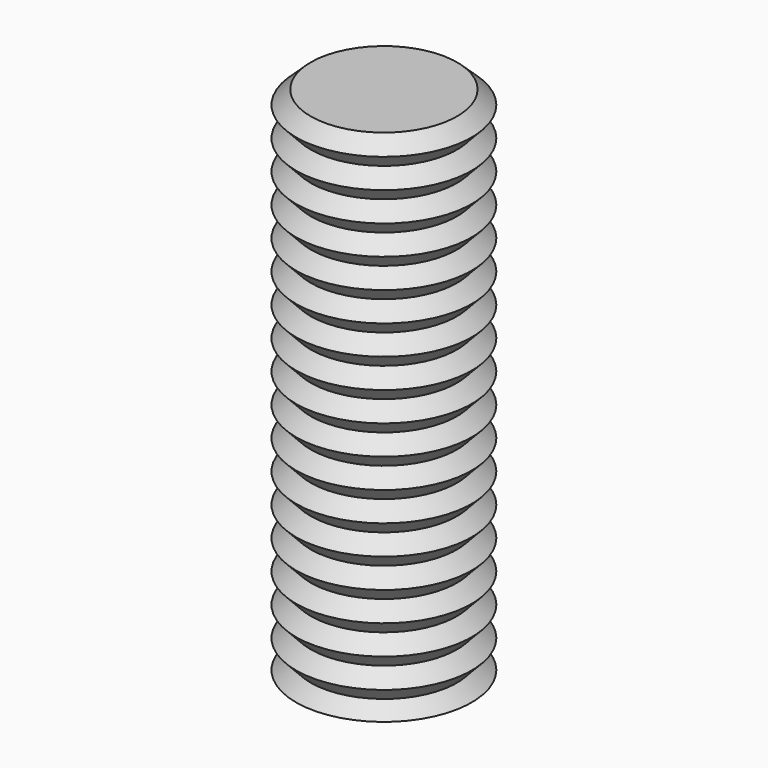
from build123d import *


with BuildPart() as f1:
    # F0 (on Front) → F1 (revolve)
    with BuildSketch(Plane.XZ):
        Polygon((7.89093, 157.690874), (-42.10907, 157.690874), (-52.10907, 148.301338), (-42.10907, 137.651184), (-52.10907, 128.261649), (-42.10907, 117.611494), (-52.10907, 108.221959), (-42.10907, 97.571805), (-52.10907, 88.182269), (-42.10907, 77.532115), (-52.10907, 68.14258), (-42.10907, 57.492426), (-52.10907, 48.10289), (-42.10907, 37.452736), (-52.10907, 28.063201), (-42.10907, 17.413046), (-52.10907, 8.023511), (-42.10907, -2.626643), (-52.10907, -12.016179), (-42.10907, -22.666333), (-52.10907, -32.055868), (-42.10907, -42.706022), (-52.10907, -52.095558), (-42.10907, -62.745712), (-52.10907, -72.135247), (-42.10907, -82.785402), (-52.10907, -92.174937), (-42.10907, -102.825091), (-52.10907, -112.214627), (-42.10907, -122.864781), (-52.10907, -132.254316), (-42.10907, -142.90447), (-52.10907, -152.294006), (-42.10907, -162.94416), (-52.10907, -172.333695), (-42.10907, -182.983849), (-52.10907, -191.579593), (7.89093, -191.579593), align=None)
    revolve(axis=Axis((7.89093, 0, -16.94436), (0, 0, -1)))


solid = f1.part
